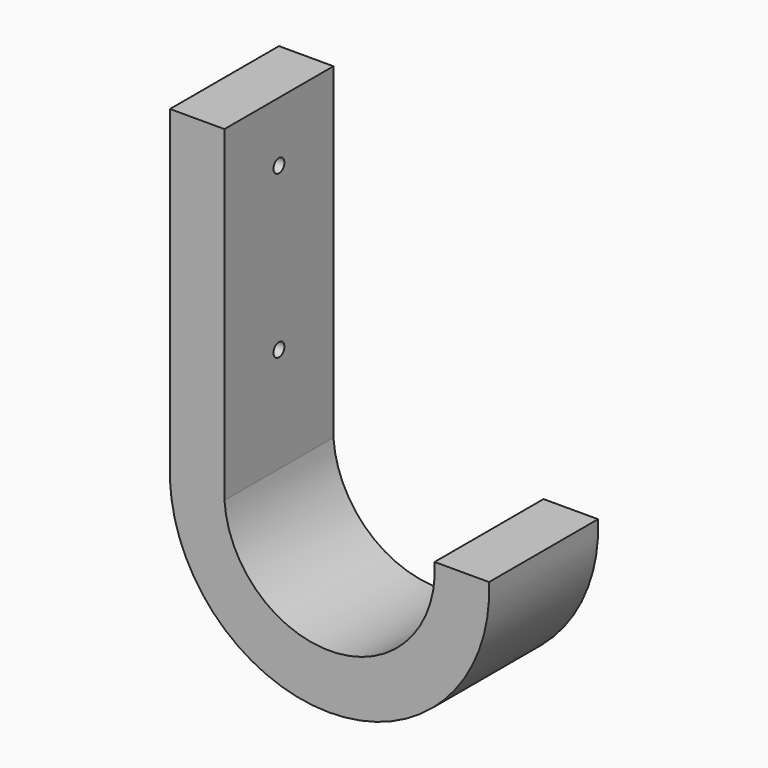
from build123d import *

# Parameters (mm, degrees)
F0_W     = 20
F0_H     = 120
F1_DEPTH = 25
F2_R     = 2.5
F3_DEPTH = 20.001


with BuildPart() as f1:
    # F0 (on Front) → F1 (new body, symmetric)
    with BuildSketch(Plane.XZ):
        Rectangle(F0_W, F0_H)
        with BuildLine():
            ThreePointArc((87.128021, -54.795358), (51.166331, -95.96169), (10, -60))
            Line((10, -60), (-10, -60))
            ThreePointArc((-10, -60), (51.166331, -115.96169), (107.128021, -54.795358))
            Line((107.128021, -54.795358), (87.128021, -54.795358))
        make_face()
    extrude(amount=F1_DEPTH, both=True)

    # F2 (on face) → F3 (cut, through all)
    with BuildSketch(Plane.YZ.offset(10)):
        with Locations((0, -21.438537)):
            Circle(F2_R)
        with Locations((0, 38.03635)):
            Circle(F2_R)
    extrude(amount=-F3_DEPTH, mode=Mode.SUBTRACT)


solid = f1.part
